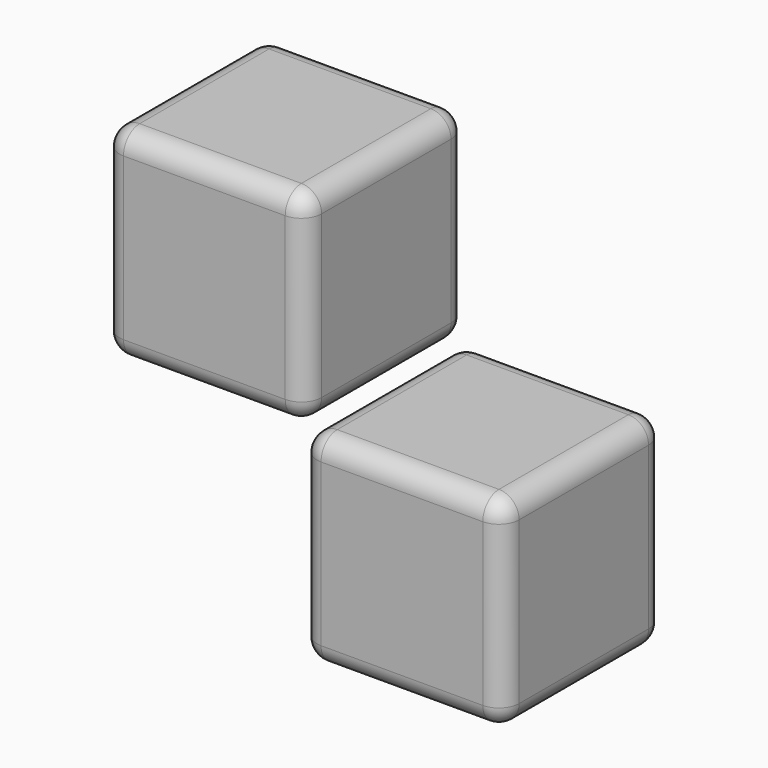
from build123d import *

# Parameters (mm, degrees)
F0_W     = 25.4
F0_H     = 25.4
F1_DEPTH = 25.4
F2_R     = 2.54
F3_W     = 25.4
F3_H     = 25.4
F4_DEPTH = 25.4
F5_R     = 2.54


with BuildPart() as f1:
    # F0 (on Front) → F1 (new body)
    with BuildSketch(Plane.XZ):
        Rectangle(F0_W, F0_H)
    extrude(amount=F1_DEPTH)

    # F2
    f2_edges = [f1.edges().sort_by_distance(p)[0] for p in [
        (-12.7, -12.7, -12.7),
        (12.7, -12.7, -12.7),
        (0, 0, -12.7),
        (0, -25.4, -12.7),
        (12.7, 0, 0),
        (0, 0, 12.7),
        (-12.7, 0, 0),
        (12.7, -12.7, 12.7),
        (12.7, -25.4, 0),
        (-12.7, -12.7, 12.7),
        (-12.7, -25.4, 0),
        (0, -25.4, 12.7),
    ]]
    fillet(f2_edges, radius=F2_R)


with BuildPart() as f4:
    # F3 (on Front) → F4 (new body)
    with BuildSketch(Plane.XZ):
        with Locations((-24.818721, 25.772888)):
            Rectangle(F3_W, F3_H)
    extrude(amount=F4_DEPTH)

    # F5
    f5_edges = [f4.edges().sort_by_distance(p)[0] for p in [
        (-12.118721, -25.4, 25.772888),
        (-24.818721, -25.4, 38.472888),
        (-37.518721, -25.4, 25.772888),
        (-24.818721, -25.4, 13.072888),
        (-37.518721, -12.7, 38.472888),
        (-37.518721, -12.7, 13.072888),
        (-37.518721, 0, 25.772888),
        (-12.118721, -12.7, 13.072888),
        (-24.818721, 0, 13.072888),
        (-12.118721, -12.7, 38.472888),
        (-12.118721, 0, 25.772888),
        (-24.818721, 0, 38.472888),
    ]]
    fillet(f5_edges, radius=F5_R)


solid = Compound([f1.part, f4.part])
